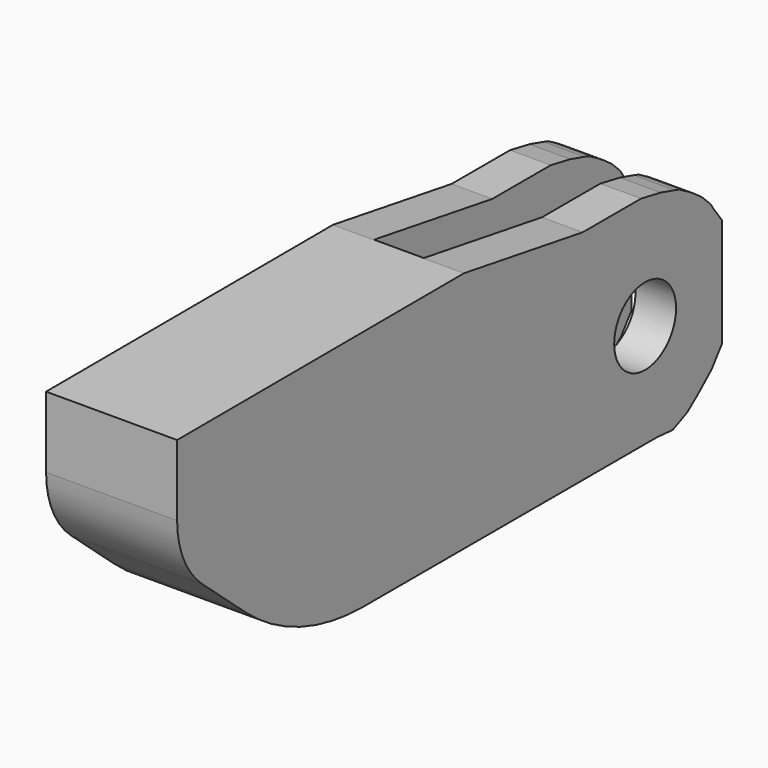
from build123d import *

# Parameters (mm, degrees)
SKETCH013_R     = 2.568486
PAD009_DEPTH    = 2.7
PAD009_FACE24_R = 2.568486
PAD010_DEPTH    = 6
SKETCH014_W     = 26.409815
SKETCH014_H     = 3.3
POCKET002_DEPTH = 17.5
FILLET004_R     = 15
FILLET005_R     = 4
FILLET006_R     = 6


with BuildPart() as part:
    # Sketch013 → Pad009 (new body)
    with BuildSketch(Plane.YZ.offset(2.7)):
        Polygon((20.516043, -0.037444), (30.366142, -1.649044), (35.213383, -1.649044), (36.83709, -1.959458), (38.007114, -2.29375), (38.389164, -2.413141), (39.177135, -2.866822), (39.72633, -3.224993), (40.275524, -3.63092), (40.967991, -4.299505), (41.254524, -4.729309), (41.923111, -5.636675), (41.923111, -12.869325), (41.062038, -14.015471), (40.035282, -14.922836), (39.032402, -15.710812), (37.838501, -16.236128), (36.525211, -16.133759), (35.140285, -16.133759), (6.593163, -16.133759), (-3.283293, -7.56256), (-3.283293, -0.110564), align=None)
        with Locations((35.551899, -9.23625)):
            Circle(SKETCH013_R, mode=Mode.SUBTRACT)
    extrude(amount=-PAD009_DEPTH)

    # Pad009 Face24 → Pad010 (add)
    with BuildSketch(Plane(origin=(2.7, 19.058053, -8.03373), x_dir=(0, -1, 0), z_dir=(1, 0, 0))):
        Polygon((-11.308089, -6.384686), (-1.45799, -7.996286), (22.341346, -7.923166), (22.341346, -0.47117), (12.46489, 8.100029), (-16.082232, 8.100029), (-17.467158, 8.100029), (-18.780448, 8.202398), (-19.974349, 7.677082), (-20.977229, 6.889106), (-22.003985, 5.981741), (-22.865058, 4.835595), (-22.865058, -2.397055), (-22.196471, -3.304421), (-21.909938, -3.734225), (-21.217471, -4.40281), (-20.668277, -4.808737), (-20.119082, -5.166908), (-19.331111, -5.620589), (-18.949061, -5.73998), (-17.779037, -6.074272), (-16.15533, -6.384686), align=None)
        with Locations((-16.493846, 1.20252)):
            Circle(PAD009_FACE24_R, mode=Mode.SUBTRACT)
    extrude(amount=PAD010_DEPTH)

    # Sketch014 (on Face46 of Pad010) → Pocket002 (cut, symmetric)
    with BuildSketch(Plane.YX.offset(16.133759)):
        with Locations((33.765693, 4.35)):
            Rectangle(SKETCH014_W, SKETCH014_H)
    extrude(amount=POCKET002_DEPTH, both=True, mode=Mode.SUBTRACT)

    # Fillet004
    fillet004_edges = [part.edges().sort_by_distance(p)[0] for p in [
        (5.7, 6.593163, -16.133759),
    ]]
    fillet(fillet004_edges, radius=FILLET004_R)

    # Fillet005
    fillet005_edges = [part.edges().sort_by_distance(p)[0] for p in [
        (4.35, 20.560785, -16.133759),
    ]]
    fillet(fillet005_edges, radius=FILLET005_R)

    # Fillet006
    fillet006_edges = [part.edges().sort_by_distance(p)[0] for p in [
        (5.7, -3.283293, -7.56256),
    ]]
    fillet(fillet006_edges, radius=FILLET006_R)


with BuildPart() as part_1:
    # Body005 placement: moved
    add(part.part.moved(Location((26.9, 0, 0))))


solid = part_1.part
